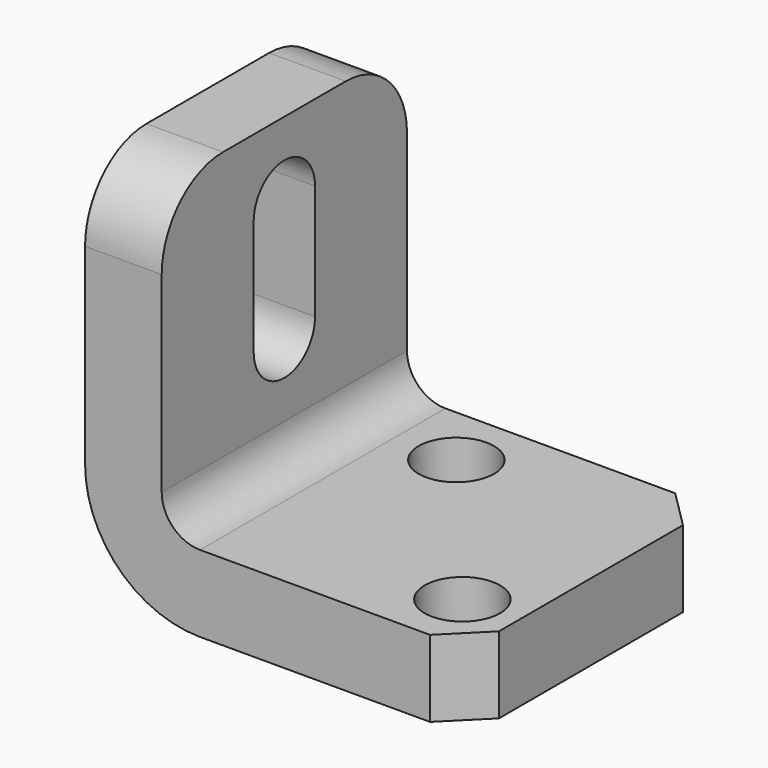
from build123d import *

# Parameters (mm, degrees)
F1_DEPTH      = 50.8
F1_DEPTH_BACK = 50.8
F3_DEPTH      = 25.4
F4_R          = 12.5
F5_DEPTH      = 25.4
F6_R          = 25.4
F7_SIZE       = 12.7


with BuildPart() as f1:
    # F0 (on Front) → F1 (new body, two sides)
    with BuildSketch(Plane.XZ) as f1_sk:
        with BuildLine():
            Line((-32.9945316374, 127), (-58.3945316374, 127))
            Line((-58.3945316374, 127), (-58.3945316374, 38.1))
            ThreePointArc((-58.3945316374, 38.1), (-47.2353000006, 11.1592316368), (-20.2945316374, 0))
            Line((-20.2945316374, 0), (68.6054683626, 0))
            Line((68.6054683626, 0), (68.6054683626, 25.4))
            Line((68.6054683626, 25.4), (-20.2945316374, 25.4))
            ThreePointArc((-20.2945316374, 25.4), (-29.2747877585, 29.1197438789), (-32.9945316374, 38.1))
            Line((-32.9945316374, 38.1), (-32.9945316374, 127))
        make_face()
    extrude(amount=-F1_DEPTH)
    extrude(f1_sk.sketch, amount=F1_DEPTH_BACK)

    # F2 (on face) → F3 (cut)
    with BuildSketch(Plane.YZ.offset(-32.9945316374)):
        with BuildLine():
            ThreePointArc((12.7, 101.6), (0, 114.3), (-12.7, 101.6))
            Line((-12.7, 101.6), (-12.7, 63.5))
            ThreePointArc((-12.7, 63.5), (0, 50.8), (12.7, 63.5))
            Line((12.7, 63.5), (12.7, 101.6))
        make_face()
    extrude(amount=-F3_DEPTH, mode=Mode.SUBTRACT)

    # F4 (on face) → F5 (cut)
    with BuildSketch(Plane.XY.offset(25.4)):
        with Locations((0, 30)):
            Circle(F4_R)
        with Locations((50, -30)):
            Circle(F4_R)
    extrude(amount=-F5_DEPTH, mode=Mode.SUBTRACT)

    # F6
    f6_edges = [f1.edges().sort_by_distance(p)[0] for p in [
        (-45.694532, -50.8, 127),
        (-45.694532, 50.8, 127),
    ]]
    fillet(f6_edges, radius=F6_R)

    # F7
    f7_edges = [f1.edges().sort_by_distance(p)[0] for p in [
        (68.605468, -50.8, 12.7),
        (68.605468, 50.8, 12.7),
    ]]
    chamfer(f7_edges, length=F7_SIZE)


solid = f1.part
